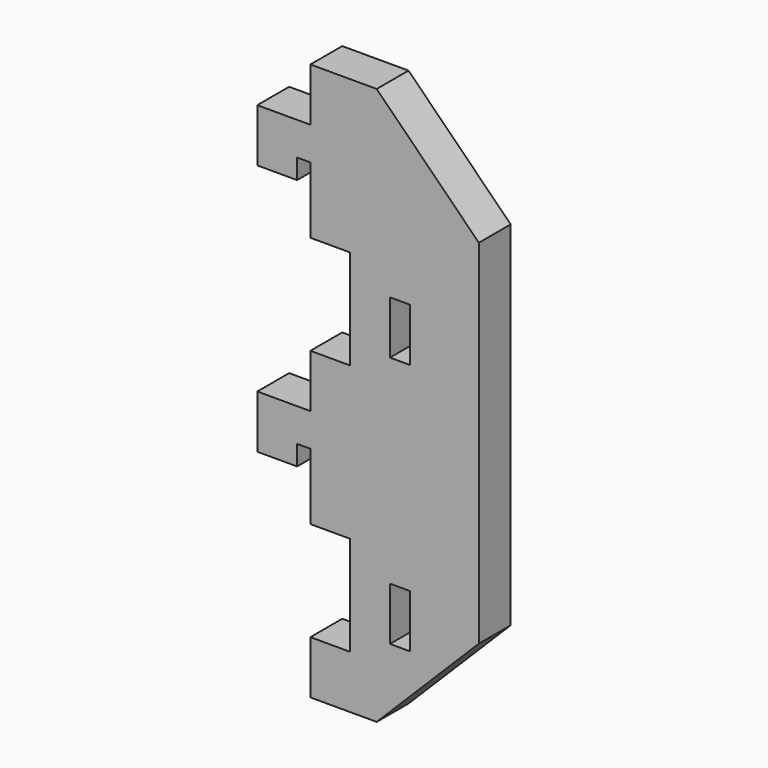
from build123d import *

# Parameters (mm, degrees)
F0_W     = 3
F0_H     = 8
F1_DEPTH = 6
F3_DEPTH = 25


with BuildPart() as f1:
    # F0 (on Front) → F1 (new body)
    with BuildSketch(Plane.XZ):
        Polygon((0, 46), (0, 38), (-8, 38), (-8, 30), (-2, 30), (-2, 33), (0, 33), (0, 23), (6, 23), (6, 8), (0, 8), (0, 0), (10, 0), (25.4, 15.4), (25.4, 106.6), (10, 122), (0, 122), (0, 114), (-8, 114), (-8, 106), (-2, 106), (-2, 109), (0, 109), (0, 99), (6, 99), (6, 84), (0, 84), (0, 76), (-8, 76), (-8, 68), (-2, 68), (-2, 71), (0, 71), (0, 61), (6, 61), (6, 46), align=None)
        with Locations((13.5, 15)):
            Rectangle(F0_W, F0_H, mode=Mode.SUBTRACT)
        with Locations((13.5, 53)):
            Rectangle(F0_W, F0_H, mode=Mode.SUBTRACT)
    extrude(amount=F1_DEPTH)

    # F2 (on face) → F3 (cut)
    with BuildSketch(Plane.XZ.offset(6)):
        Polygon((-15.520183, 88.449873), (0, 84), (10, 84), (25.4, 68.6), (32.788105, 68.6), (32.788105, 127.545327), (-15.520183, 123.835541), align=None)
    extrude(amount=-F3_DEPTH, mode=Mode.SUBTRACT)


solid = f1.part
